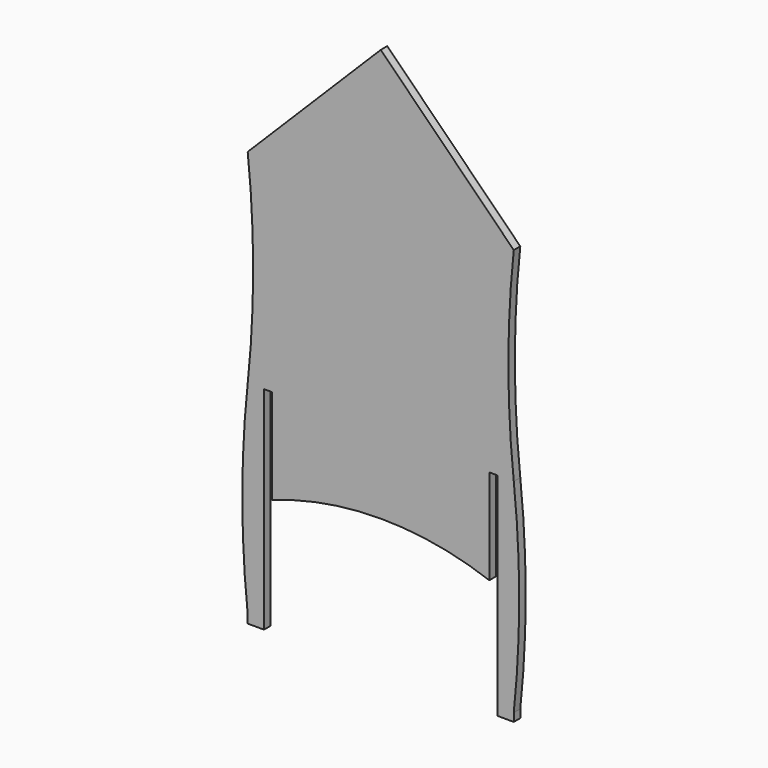
from build123d import *

# Parameters (mm, degrees)
F1_W     = 6
F1_H     = 3
F2_DEPTH = 3


with BuildPart() as f2:
    # F1 (on Front) → F2 (new body)
    with BuildSketch(Plane.XZ):
        Polygon((-49, 75), (49, 75), (0, 124), align=None)
        with BuildLine():
            Line((43, -75), (49, -75))
            Line((49, -75), (49, 0))
            ThreePointArc((49, 0), (47, 37.5), (49, 75))
            Line((49, 75), (-49, 75))
            ThreePointArc((-49, 75), (-47, 37.5), (-49, 0))
            Line((-49, 0), (-49, -75))
            Line((-49, -75), (-43, -75))
            Line((-43, -75), (-43, 0))
            Line((-43, 0), (-40, 0))
            Line((-40, 0), (-40, -35))
            ThreePointArc((-40, -35), (0, -28), (40, -35))
            Line((40, -35), (40, 0))
            Line((40, 0), (43, 0))
            Line((43, 0), (43, -75))
        make_face()
        with Locations((-46, -76.5)):
            Rectangle(F1_W, F1_H)
        with Locations((46, -76.5)):
            Rectangle(F1_W, F1_H)
        with BuildLine():
            Line((-49, -75), (-49, 0))
            ThreePointArc((-49, 0), (-51, -37.5), (-49, -75))
        make_face()
        with BuildLine():
            Line((49, 0), (49, -75))
            ThreePointArc((49, -75), (51, -37.5), (49, 0))
        make_face()
    extrude(amount=F2_DEPTH)


solid = f2.part
